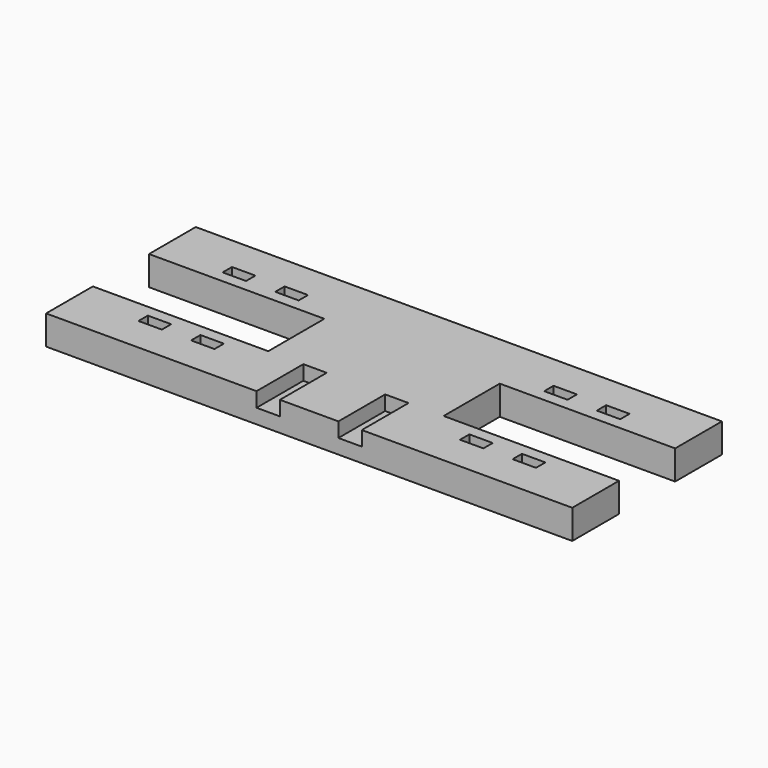
from build123d import *

# Parameters (mm, degrees)
PAD_DEPTH         = 2.5
SKETCH001_W       = 4
SKETCH001_H       = 2
POCKET_DEPTH      = 193.80181
POCKET_DEPTH_BACK = 193.80181
SKETCH002_W       = 4
SKETCH002_H       = 12
POCKET001_DEPTH   = 193.80181


with BuildPart() as part:
    # Sketch → Pad (new body, symmetric)
    with BuildSketch(Plane.XY):
        Polygon((-45, 0), (-15, 0), (-15, 12), (-45, 12), (-45, 22), (45, 22), (45, 12), (15, 12), (15, 0), (45, 0), (45, -10), (-45, -10), align=None)
    extrude(amount=PAD_DEPTH, both=True)

    # Sketch001 → Pocket (cut, two sides)
    with BuildSketch(Plane.XY) as pocket_sk:
        with Locations((-32, -3)):
            Rectangle(SKETCH001_W, SKETCH001_H)
        with Locations((-32, 15)):
            Rectangle(SKETCH001_W, SKETCH001_H)
        with Locations((-23, -3)):
            Rectangle(SKETCH001_W, SKETCH001_H)
        with Locations((-23, 15)):
            Rectangle(SKETCH001_W, SKETCH001_H)
    pocket = extrude(amount=-POCKET_DEPTH, mode=Mode.SUBTRACT) + extrude(pocket_sk.sketch, amount=POCKET_DEPTH_BACK, mode=Mode.SUBTRACT)

    # Mirrored: Pocket across YZ
    add(pocket.mirror(Plane.YZ), mode=Mode.SUBTRACT)

    # Sketch002 → Pocket001 (cut, through all)
    with BuildSketch(Plane.XY):
        with Locations((-7, -6)):
            Rectangle(SKETCH002_W, SKETCH002_H)
    pocket001 = extrude(amount=POCKET001_DEPTH, mode=Mode.SUBTRACT)

    # Mirrored001: Pocket001 across Sketch002 V_Axis
    add(pocket001.mirror(Plane(origin=(0, 0, 0), x_dir=(0, 0, 1), z_dir=(1, 0, 0))), mode=Mode.SUBTRACT)


solid = part.part
